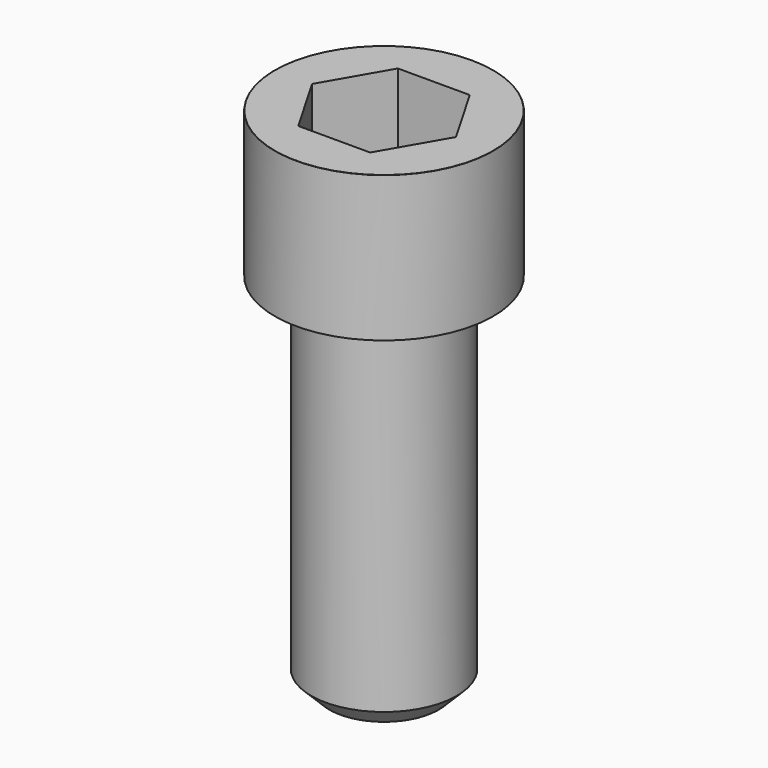
from build123d import *

# Parameters (mm, degrees)
POCKET_DEPTH = 17.1


with BuildPart() as part:
    # Sketch → Revolve (revolve)
    with BuildSketch(Plane.YZ):
        with BuildLine():
            Line((9.999, 0), (15, 0))
            Line((15, 0), (15, 19.97229))
            ThreePointArc((15, 19.97229), (14.991884, 19.991884), (14.97229, 20))
            Line((14.97229, 20), (0, 20))
            Line((0, -50), (0, 20))
            Line((7.5, -50), (0, -50))
            Line((10, -47.5), (7.5, -50))
            Line((10, -0.2), (10, -47.5))
            Line((9.999, 0), (10, -0.2))
        make_face()
    revolve(axis=Axis((0, 0, 0), (0, 0, 1)))

    # Sketch001 → Pocket (cut)
    with BuildSketch(Plane.XY.offset(20)):
        Polygon((9.87269, 0), (4.936345, 8.55), (-4.936345, 8.55), (-9.87269, 0), (-4.936345, -8.55), (4.936345, -8.55), align=None)
    extrude(amount=-POCKET_DEPTH, mode=Mode.SUBTRACT)


solid = part.part
